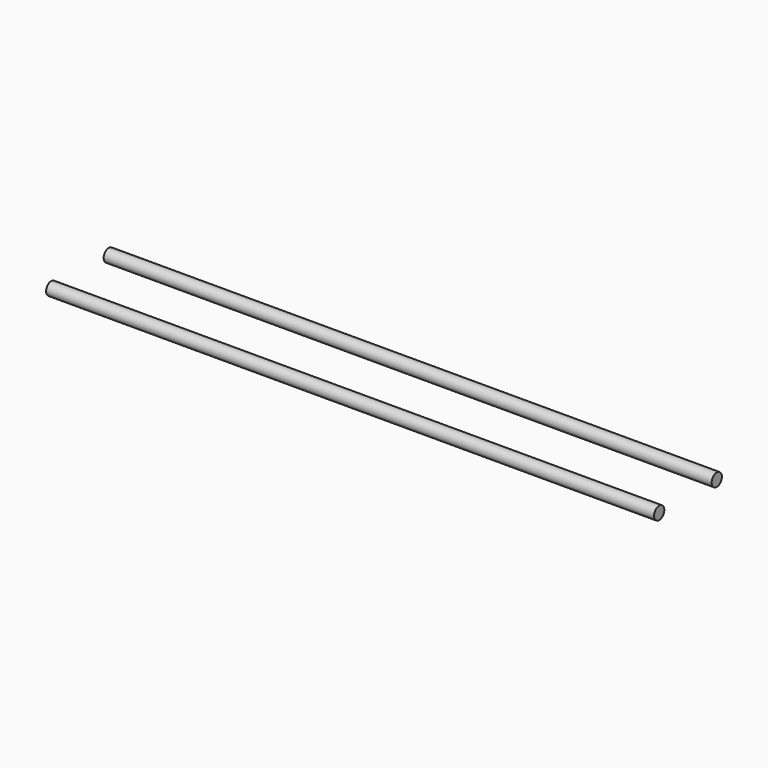
from build123d import *

# Parameters (mm, degrees)
F0_R     = 4
F1_DEPTH = 380


with BuildPart() as f1:
    # F0 (on Right) → F1 (new body)
    with BuildSketch(Plane.YZ):
        Circle(F0_R)
        with Locations((45, 0)):
            Circle(F0_R)
    extrude(amount=F1_DEPTH)


solid = f1.part
